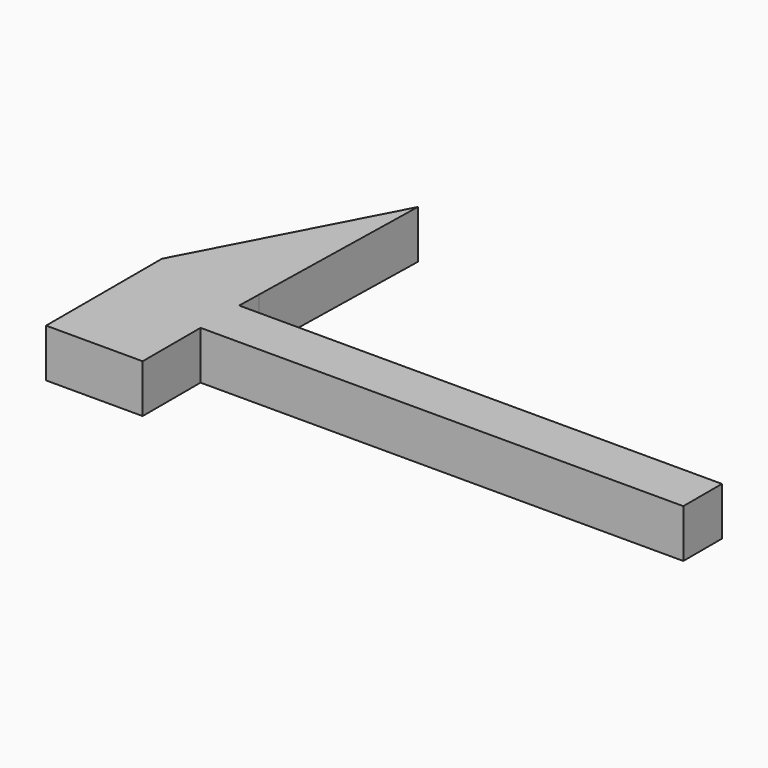
from build123d import *

# Parameters (mm, degrees)
F0_W     = 50
F0_H     = 5
F1_DEPTH = 5


with BuildPart() as f1:
    # F0 (on Top) → F1 (new body)
    with BuildSketch(Plane.XY):
        Polygon((-25, -2.5), (-25, 2.5), (-24.944444, 5), (-35, 5), (-35, -2.5), (-35, -10), (-25, -10), align=None)
        Rectangle(F0_W, F0_H)
        Polygon((-35, 5), (-24.944444, 5), (-24.5, 25), align=None)
    extrude(amount=F1_DEPTH)


solid = f1.part
